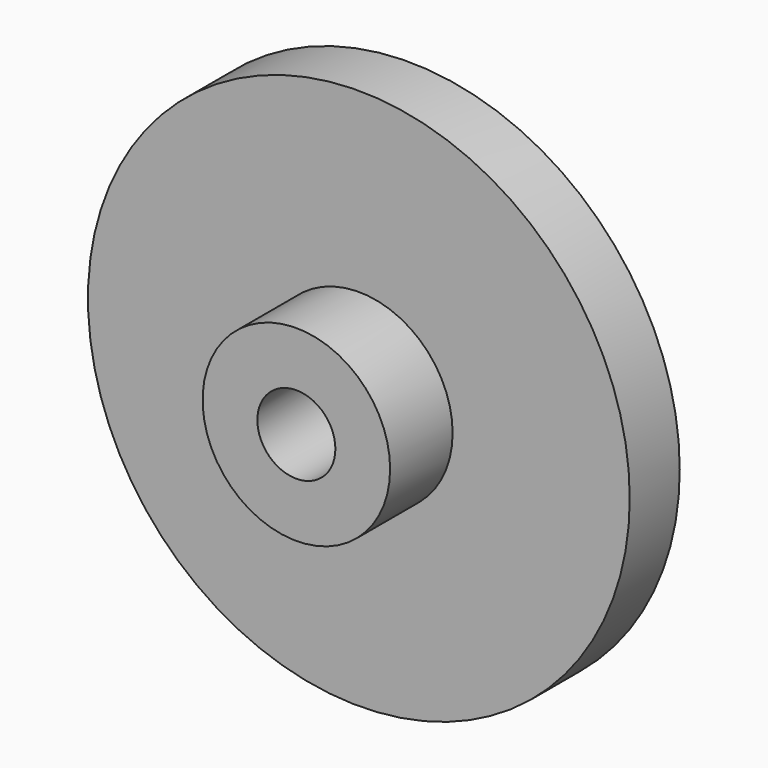
from build123d import *

# Parameters (mm, degrees)
F0_R     = 27.5209
F1_DEPTH = 14.2875
F2_R     = 27.5209
F2_R_2   = 9.525
F3_DEPTH = 7.9375
F4_R     = 3.9624
F5_DEPTH = 14.2885


with BuildPart() as f1:
    # F0 (on Front) → F1 (new body)
    with BuildSketch(Plane.XZ):
        Circle(F0_R)
    extrude(amount=-F1_DEPTH)

    # F2 (on face) → F3 (cut)
    with BuildSketch(Plane.XZ):
        Circle(F2_R)
        Circle(F2_R_2, mode=Mode.SUBTRACT)
    extrude(amount=-F3_DEPTH, mode=Mode.SUBTRACT)

    # F4 (on face) → F5 (cut, through all)
    with BuildSketch(Plane.XZ):
        Circle(F4_R)
    extrude(amount=-F5_DEPTH, mode=Mode.SUBTRACT)


solid = f1.part
